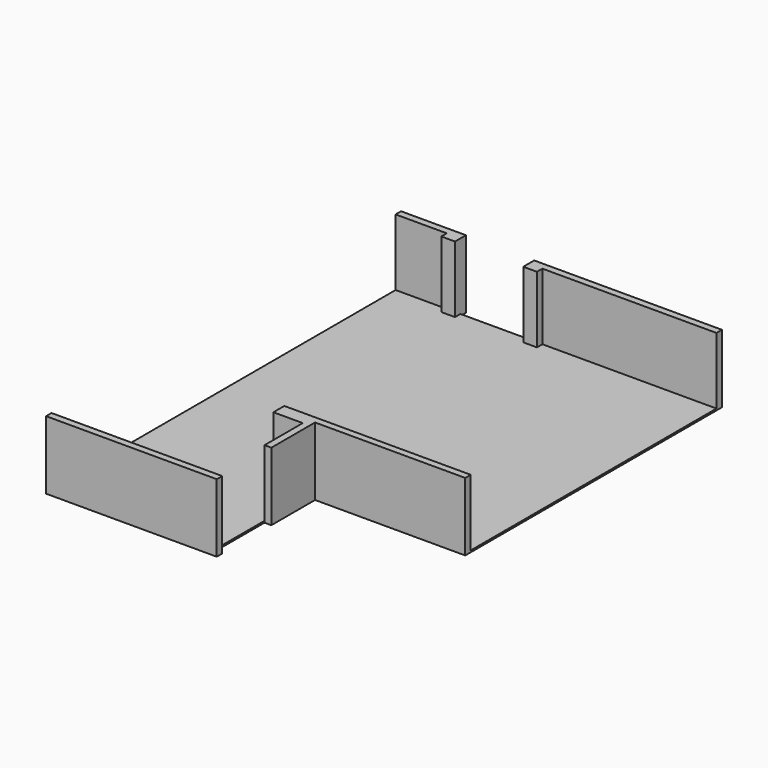
from build123d import *

# Parameters (mm, degrees)
F2_DEPTH  = 1000
F4_DEPTH  = 1000
F5_W      = 2500
F5_H      = 100
F6_DEPTH  = 1000
F8_DEPTH  = 1000
F9_DEPTH  = 25
F10_W     = 480
F10_H     = 480
F11_DEPTH = 10


with BuildPart() as f2:
    # F1 (on Top) → F2 (new body)
    with BuildSketch(Plane.XY):
        Polygon((0, 6400), (0, 6300), (750, 6300), (750, 6200), (950, 6200), (950, 6400), align=None)
    extrude(amount=F2_DEPTH)



with BuildPart() as f4:
    # F3 (on Top) → F4 (new body)
    with BuildSketch(Plane.XY):
        Polygon((4700, 6300), (4700, 6400), (1950, 6400), (1950, 6200), (2150, 6200), (2150, 6300), align=None)
    extrude(amount=F4_DEPTH)


with BuildPart() as f6:
    # F5 (on Top) → F6 (new body)
    with BuildSketch(Plane.XY):
        with Locations((1250, -50)):
            Rectangle(F5_W, F5_H)
    extrude(amount=F6_DEPTH)


with BuildPart() as f8:
    # F7 (on Top) → F8 (new body)
    with BuildSketch(Plane.XY):
        Polygon((4700, 1800), (1970, 1800), (1970, 1600), (2400, 1600), (2400, 900), (2500, 900), (2500, 1700), (4700, 1700), align=None)
    extrude(amount=F8_DEPTH)


with BuildPart() as f2_1:
    add(f2.part)

    add(f4.part)  # F9 merges F4

    add(f6.part)  # F9 merges F6

    add(f8.part)  # F9 merges F8
    # F0 (on Top) → F9 (join)
    with BuildSketch(Plane.XY):
        Polygon((0, 6300), (0, 0), (2400, 0), (2400, 1600), (1970, 1600), (1970, 1800), (4700, 1800), (4700, 6300), align=None)
    extrude(amount=F9_DEPTH)

    # F10 (on face) → F11 (join)
    with BuildSketch(Plane.XY.offset(25)):
        with Locations((1200, 250)):
            Rectangle(F10_W, F10_H)
    extrude(amount=F11_DEPTH)


solid = f2_1.part
